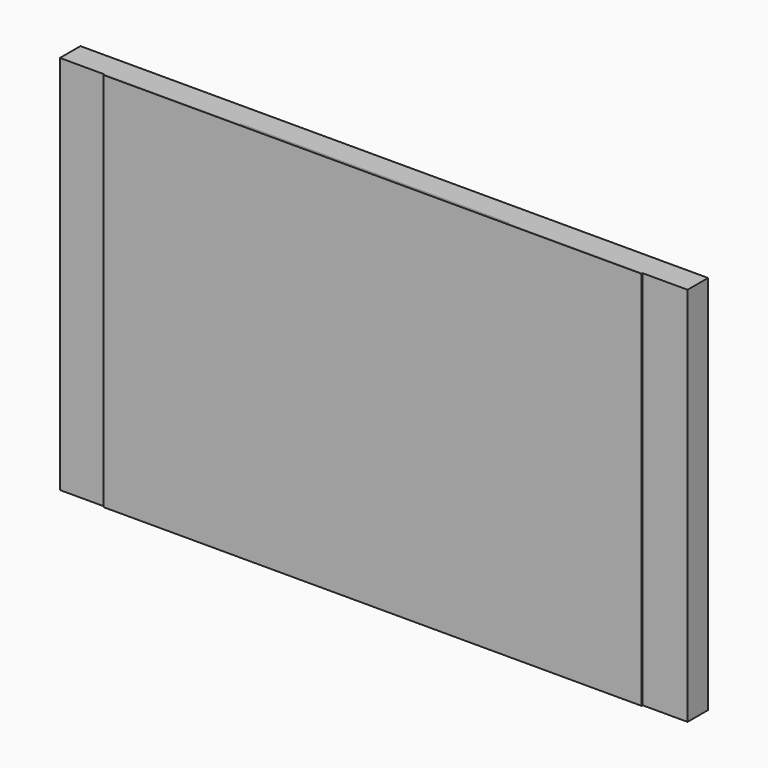
from build123d import *

# Parameters (mm, degrees)
F0_W     = 490
F0_H     = 297
F1_DEPTH = 20
F2_W     = 210
F2_H     = 297
F4_DEPTH = 1
F3_W     = 420
F3_H     = 297
F5_DEPTH = 1


with BuildPart() as f1:
    # F0 (on Front) → F1 (new body)
    with BuildSketch(Plane.XZ):
        Rectangle(F0_W, F0_H)
    extrude(amount=-F1_DEPTH)


with BuildPart() as f4:
    # F2 (on face) → F4 (new body)
    with BuildSketch(Plane.XZ):
        Rectangle(F2_W, F2_H)
    extrude(amount=-F4_DEPTH)


with BuildPart() as f5:
    # F3 (on face) → F5 (new body)
    with BuildSketch(Plane.XZ):
        Rectangle(F3_W, F3_H)
    extrude(amount=F5_DEPTH)


solid = Compound([f1.part, f4.part, f5.part])
